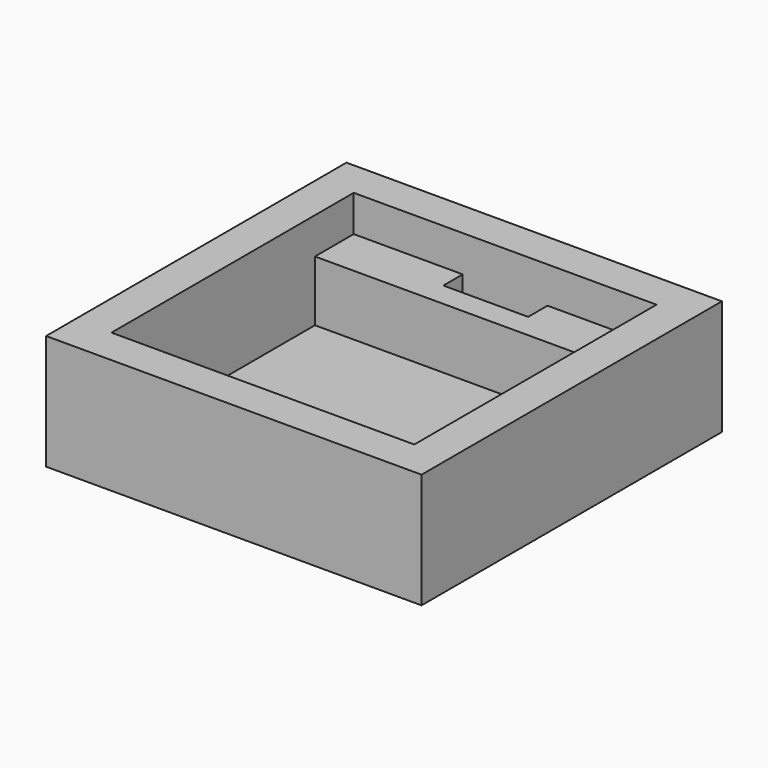
from build123d import *

# Parameters (mm, degrees)
F0_W     = 310
F0_H     = 310
F0_W_2   = 250
F0_H_2   = 250
F1_DEPTH = 90
F3_DEPTH = 60
F4_W     = 250
F4_H     = 140
F4_H_2   = 10
F5_DEPTH = 10
F6_DEPTH = 30
F7_DEPTH = 5


with BuildPart() as f1:
    # F0 (on Top) → F1 (new body)
    with BuildSketch(Plane.XY):
        Rectangle(F0_W, F0_H)
        Rectangle(F0_W_2, F0_H_2, mode=Mode.SUBTRACT)
    extrude(amount=F1_DEPTH)

    # F2 (on face) → F3 (join)
    with BuildSketch(Plane(origin=(0, 0, 0), x_dir=(1, 0, 0), z_dir=(0, 0, -1))):
        Polygon((-125, -85), (-125, -125), (-35, -125), (-35, -105), (35, -105), (35, -125), (125, -125), (125, -85), align=None)
    extrude(amount=-F3_DEPTH)

    # F4 (on face) → F5 (join)
    with BuildSketch(Plane(origin=(0, 0, 0), x_dir=(1, 0, 0), z_dir=(0, 0, -1))):
        with Locations((0, -15)):
            Rectangle(F4_W, F4_H)
        with Locations((0, 60)):
            Rectangle(F4_W, F4_H_2)
    extrude(amount=-F5_DEPTH)

    # F4 (on face) → F6 (join)
    with BuildSketch(Plane(origin=(0, 0, 0), x_dir=(1, 0, 0), z_dir=(0, 0, -1))):
        with Locations((0, 60)):
            Rectangle(F4_W, F4_H_2)
    extrude(amount=-F6_DEPTH)

    # F0 (on Top) → F7 (join)
    with BuildSketch(Plane.XY):
        Rectangle(F0_W, F0_H)
        Rectangle(F0_W_2, F0_H_2, mode=Mode.SUBTRACT)
    extrude(amount=-F7_DEPTH)


solid = f1.part
